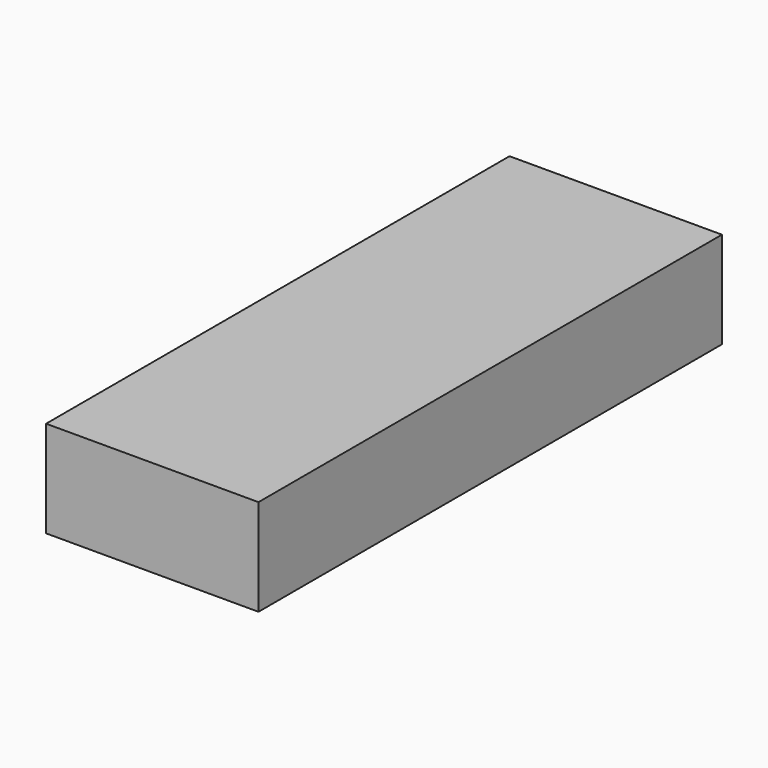
from build123d import *

# Parameters (mm, degrees)
SKETCH042_W   = 9
SKETCH042_H   = 28
PAD027_DEPTH  = 1
SKETCH043_W   = 9
SKETCH043_H   = 28
SKETCH043_W_2 = 7
SKETCH043_H_2 = 26
PAD028_DEPTH  = 3
BOX002_W      = 11
BOX002_H      = 30
BOX002_DEPTH  = 5


with BuildPart() as sidemold:
    # Sketch042 → Pad027 (new body)
    with BuildSketch(Plane.XY):
        Rectangle(SKETCH042_W, SKETCH042_H)
    extrude(amount=PAD027_DEPTH)

    # Sketch043 (on Face6 of Pad027) → Pad028 (join)
    with BuildSketch(Plane.XY.offset(1)):
        Rectangle(SKETCH043_W, SKETCH043_H)
        Rectangle(SKETCH043_W_2, SKETCH043_H_2, mode=Mode.SUBTRACT)
    extrude(amount=PAD028_DEPTH)


with BuildPart() as sidemold_1:
    # Body009 placement: moved
    add(sidemold.part.moved(Location((150, 35, 0))))


with BuildPart() as short_side_mold:
    # Box002 → Box002 (new body)
    with BuildSketch(Plane(origin=(144.5, 20, 0), x_dir=(1, 0, 0), z_dir=(0, 0, 1))):
        with Locations((5.5, 15)):
            Rectangle(BOX002_W, BOX002_H)
    extrude(amount=BOX002_DEPTH)

    # Cut002: cut SideMold
    add(sidemold_1.part, mode=Mode.SUBTRACT)


with BuildPart() as short_side_mold_1:
    # Cut002 placement: moved
    add(short_side_mold.part.moved(Location((0, 42, 0))))


solid = short_side_mold_1.part
